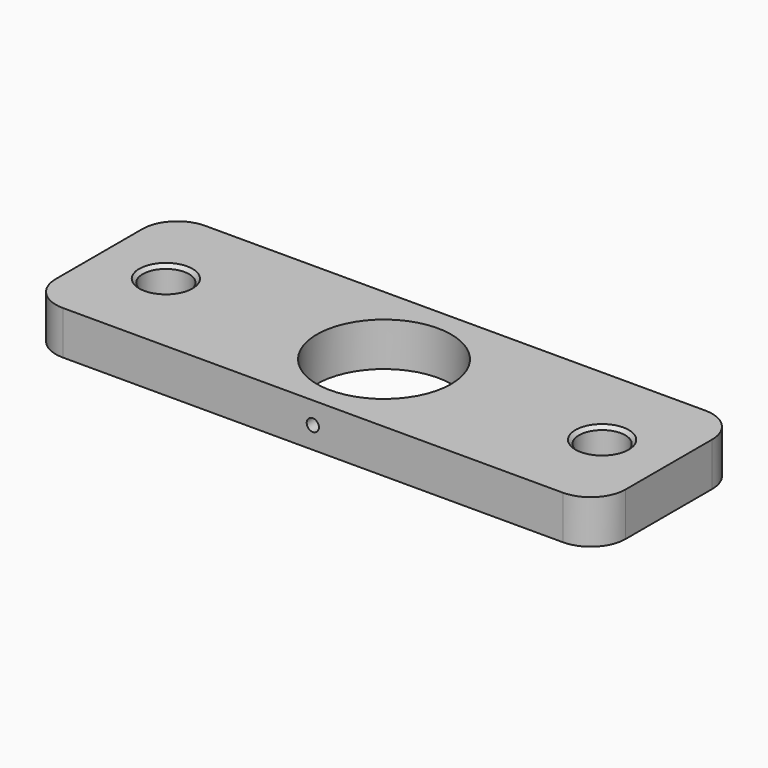
from build123d import *

# Parameters (mm, degrees)
F0_W     = 82.946875
F0_H     = 25.908
F0_R     = 3.3734375
F0_R_2   = 9.779
F1_DEPTH = 6.35
F2_R     = 0.889
F3_DEPTH = 3.2164930276
F4_R     = 5.08
F5_SIZE  = 0.508


with BuildPart() as f1:
    # F0 (on Top) → F1 (new body)
    with BuildSketch(Plane.XY):
        Rectangle(F0_W, F0_H)
        with Locations((-31.75, 0)):
            Circle(F0_R, mode=Mode.SUBTRACT)
        Circle(F0_R_2, mode=Mode.SUBTRACT)
        with Locations((31.75, 0)):
            Circle(F0_R, mode=Mode.SUBTRACT)
    extrude(amount=F1_DEPTH)

    # F2 (on face) → F3 (cut, through all)
    with BuildSketch(Plane.XZ.offset(12.954)):
        with Locations((0, 3.175)):
            Circle(F2_R)
    extrude(amount=-F3_DEPTH, mode=Mode.SUBTRACT)

    # F4
    f4_edges = [f1.edges().sort_by_distance(p)[0] for p in [
        (41.473438, -12.954, 3.175),
        (41.473438, 12.954, 3.175),
        (-41.473438, -12.954, 3.175),
        (-41.473438, 12.954, 3.175),
    ]]
    fillet(f4_edges, radius=F4_R)

    # F5
    f5_edges = [f1.edges().sort_by_distance(p)[0] for p in [
        (-35.123438, 0, 6.35),
        (28.376562, 0, 6.35),
    ]]
    chamfer(f5_edges, length=F5_SIZE)


solid = f1.part
